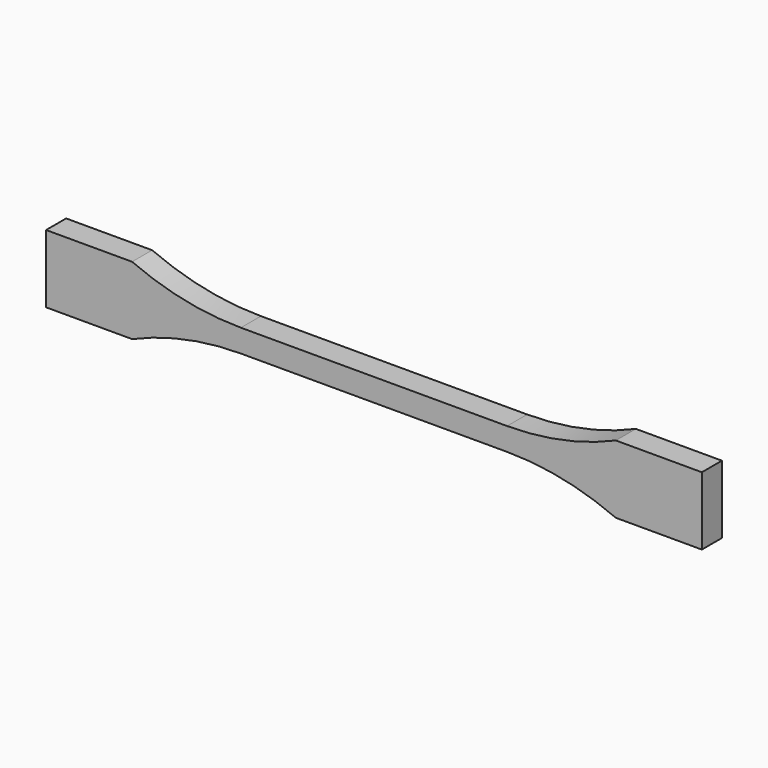
from build123d import *

# Parameters (mm, degrees)
F1_DEPTH = 7


with BuildPart() as f1:
    # F0 (on Front) → F1 (new body)
    with BuildSketch(Plane.XZ):
        with BuildLine():
            Line((37.145521, 3.175), (0, 3.175))
            Line((0, 3.175), (-37.145521, 3.175))
            ThreePointArc((-37.145521, 3.175), (-52.648747, 4.773051), (-67.5, 9.5))
            Line((-67.5, 9.5), (-91.5, 9.5))
            Line((-91.5, 9.5), (-91.5, -9.5))
            Line((-91.5, -9.5), (-67.5, -9.5))
            ThreePointArc((-67.5, -9.5), (-52.648747, -4.773051), (-37.145521, -3.175))
            Line((-37.145521, -3.175), (0, -3.175))
            Line((0, -3.175), (37.145521, -3.175))
            ThreePointArc((37.145521, -3.175), (52.648747, -4.773051), (67.5, -9.5))
            Line((67.5, -9.5), (91.5, -9.5))
            Line((91.5, -9.5), (91.5, 9.5))
            Line((91.5, 9.5), (67.5, 9.5))
            ThreePointArc((67.5, 9.5), (52.648747, 4.773051), (37.145521, 3.175))
        make_face()
    extrude(amount=F1_DEPTH)


solid = f1.part
